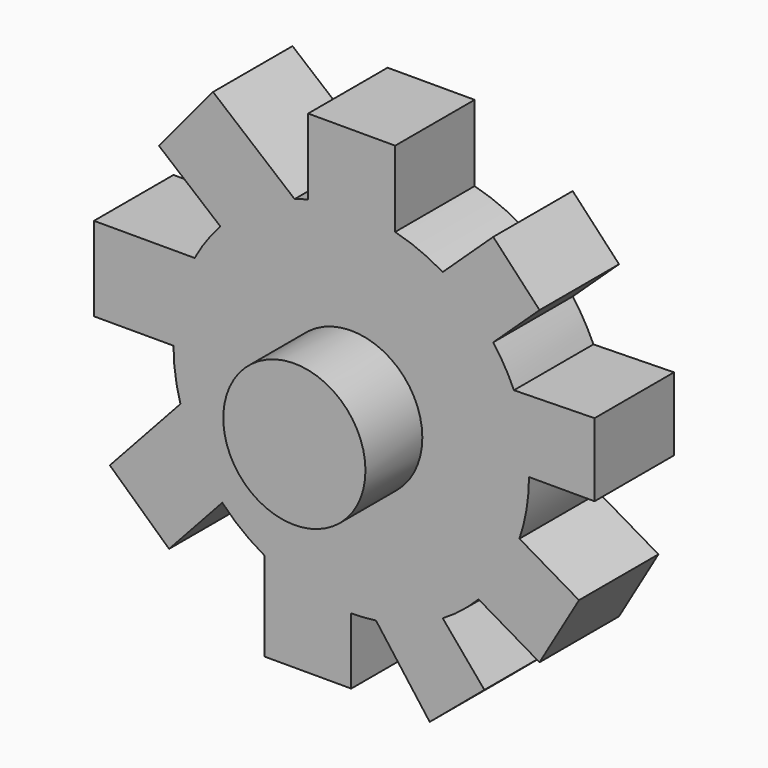
from build123d import *

# Parameters (mm, degrees)
F1_DEPTH = 13.97
F2_R     = 10
F3_DEPTH = 10


with BuildPart() as f1:
    # F0 (on Front) → F1 (new body)
    with BuildSketch(Plane.XZ):
        with BuildLine():
            Line((-27.038966, 24.086541), (-18.4103, 16.913334))
            ThreePointArc((-18.4103, 16.913334), (-20.376386, 14.484575), (-22.024132, 11.829523))
            Line((-22.024132, 11.829523), (-36.183149, 11.829523))
            Line((-36.183149, 11.829523), (-36.183149, 0))
            Line((-36.183149, 0), (-25, 0))
            ThreePointArc((-25, 0), (-24.756046, -3.483993), (-24.028943, -6.899992))
            Line((-24.028943, -6.899992), (-33.953485, -17.718133))
            Line((-33.953485, -17.718133), (-25.621684, -25.361711))
            Line((-25.621684, -25.361711), (-18.138385, -17.204621))
            ThreePointArc((-18.138385, -17.204621), (-15.35615, -19.727865), (-12.227292, -21.805809))
            Line((-12.227292, -21.805809), (-12.227292, -34.329325))
            Line((-12.227292, -34.329325), (0, -34.329325))
            Line((0, -34.329325), (0, -25))
            ThreePointArc((0, -25), (1.742291, -24.939215), (3.47611, -24.757154))
            Line((3.47611, -24.757154), (11.038892, -34.863253))
            Line((11.038892, -34.863253), (18.727201, -28.394516))
            Line((18.727201, -28.394516), (12.869844, -21.432851))
            ThreePointArc((12.869844, -21.432851), (15.516339, -19.602123), (17.905748, -17.44661))
            Line((17.905748, -17.44661), (26.48082, -22.458796))
            Line((26.48082, -22.458796), (32.031694, -12.962112))
            Line((32.031694, -12.962112), (23.661741, -8.06982))
            ThreePointArc((23.661741, -8.06982), (24.663166, -4.090016), (25, 0))
            Line((25, 0), (34.223702, 0))
            Line((34.223702, 0), (34.223702, 10.287246))
            Line((34.223702, 10.287246), (22.886084, 10.061171))
            ThreePointArc((22.886084, 10.061171), (21.571907, 12.63538), (19.969405, 15.040707))
            Line((19.969405, 15.040707), (26.488481, 21.155922))
            Line((26.488481, 21.155922), (19.97252, 28.10221))
            Line((19.97252, 28.10221), (12.86549, 21.435465))
            ThreePointArc((12.86549, 21.435465), (9.623244, 23.073647), (6.177821, 24.224668))
            Line((6.177821, 24.224668), (6.177821, 34.908951))
            Line((6.177821, 34.908951), (-6.062098, 34.908951))
            Line((-6.062098, 34.908951), (-6.062098, 24.253886))
            ThreePointArc((-6.062098, 24.253886), (-7.019621, 23.994269), (-7.966089, 23.696865))
            Line((-7.966089, 23.696865), (-19.43605, 33.232105))
            Line((-19.43605, 33.232105), (-27.038966, 24.086541))
        make_face()
    extrude(amount=F1_DEPTH)

    # F2 (on face) → F3 (join)
    with BuildSketch(Plane.XZ.offset(13.97)):
        Circle(F2_R)
        Circle(F2_R)
    extrude(amount=F3_DEPTH)


solid = f1.part
